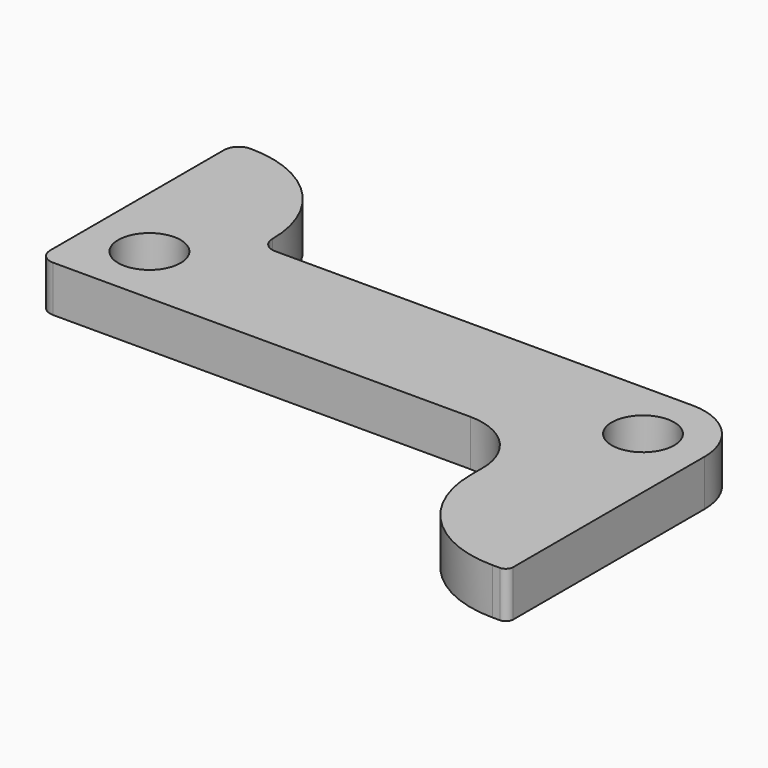
from build123d import *

# Parameters (mm, degrees)
F0_R     = 3.2131
F1_DEPTH = 4.7498


with BuildPart() as f1:
    # F0 (on Top) → F1 (new body)
    with BuildSketch(Plane.XY):
        with BuildLine():
            ThreePointArc((-30.226, 19.05), (-31.303631, 18.603631), (-31.75, 17.526))
            Line((-31.75, 17.526), (-31.75, -4.826))
            ThreePointArc((-31.75, -4.826), (-31.303631, -5.903631), (-30.226, -6.35))
            Line((-30.226, -6.35), (12.7, -6.35))
            ThreePointArc((12.7, -6.35), (17.190128, -8.209872), (19.05, -12.7))
            Line((19.05, -12.7), (19.05, -14.224))
            ThreePointArc((19.05, -14.224), (22.323375, -22.126625), (30.226, -25.4))
            Line((30.226, -25.4), (30.988, -25.4))
            ThreePointArc((30.988, -25.4), (31.526815, -25.176815), (31.75, -24.638))
            Line((31.75, -24.638), (31.75, 0))
            ThreePointArc((31.75, 0), (29.890128, 4.490128), (25.4, 6.35))
            Line((25.4, 6.35), (-17.526, 6.35))
            ThreePointArc((-17.526, 6.35), (-18.603631, 6.796369), (-19.05, 7.874))
            ThreePointArc((-19.05, 7.874), (-22.323375, 15.776625), (-30.226, 19.05))
        make_face()
        with Locations((-25.4, 0)):
            Circle(F0_R, mode=Mode.SUBTRACT)
        with Locations((25.4, 0)):
            Circle(F0_R, mode=Mode.SUBTRACT)
    extrude(amount=F1_DEPTH)


solid = f1.part
